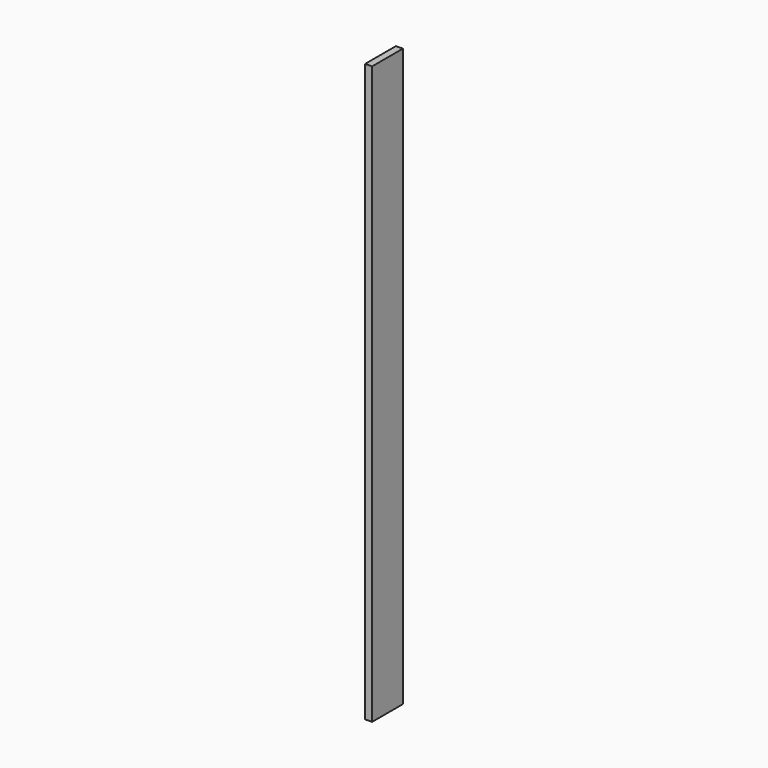
from build123d import *

# Parameters (mm, degrees)
F0_W     = 100
F0_H     = 1500
F1_DEPTH = 9


with BuildPart() as f1:
    # F0 (on Right) → F1 (new body, symmetric)
    with BuildSketch(Plane.YZ):
        Rectangle(F0_W, F0_H)
    extrude(amount=F1_DEPTH, both=True)


with BuildPart() as f1_1:
    # F2: moved
    add(f1.part.moved(Location((500, 0, 0))))


solid = f1_1.part
